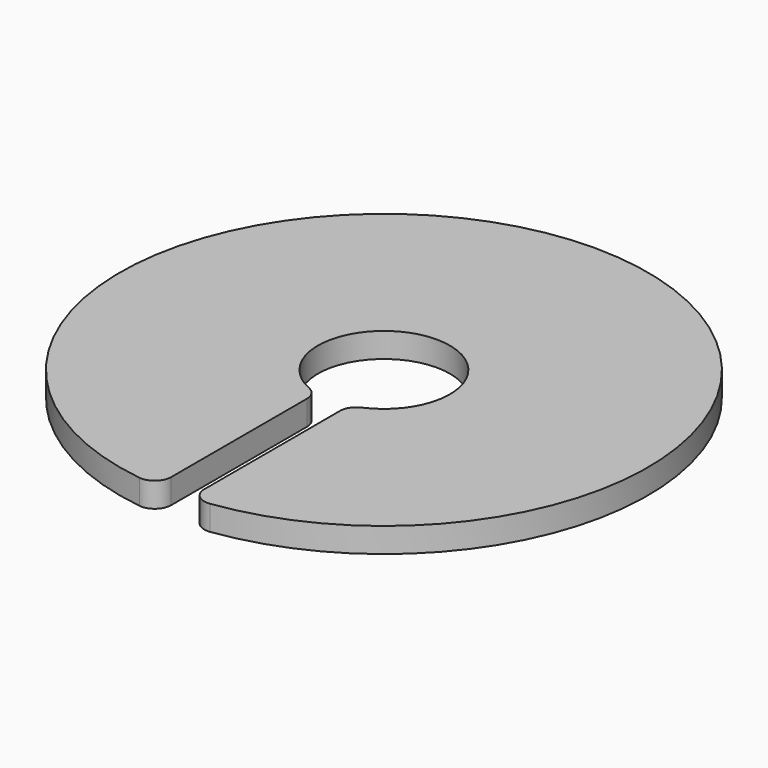
from build123d import *

# Parameters (mm, degrees)
F0_R     = 101.6
F1_DEPTH = 9.525
F3_DEPTH = 9.526
F4_R     = 6.35


with BuildPart() as f1:
    # F0 (on Top) → F1 (new body)
    with BuildSketch(Plane.XY):
        Circle(F0_R)
    extrude(amount=F1_DEPTH)

    # F2 (on face) → F3 (cut, through all)
    with BuildSketch(Plane.XY.offset(9.525)):
        with BuildLine():
            Line((6.35, -101.401368334), (6.35, -24.5934442484))
            ThreePointArc((6.35, -24.5934442484), (0, 25.4), (-6.35, -24.5934442484))
            Line((-6.35, -24.5934442484), (-6.35, -101.401368334))
            ThreePointArc((-6.35, -101.401368334), (0, -101.6), (6.35, -101.401368334))
        make_face()
    extrude(amount=-F3_DEPTH, mode=Mode.SUBTRACT)

    # F4
    f4_edges = [f1.edges().sort_by_distance(p)[0] for p in [
        (-6.35, -101.401368, 4.7625),
        (6.35, -101.401368, 4.7625),
        (-6.35, -24.593444, 4.7625),
        (6.35, -24.593444, 4.7625),
    ]]
    fillet(f4_edges, radius=F4_R)


solid = f1.part
